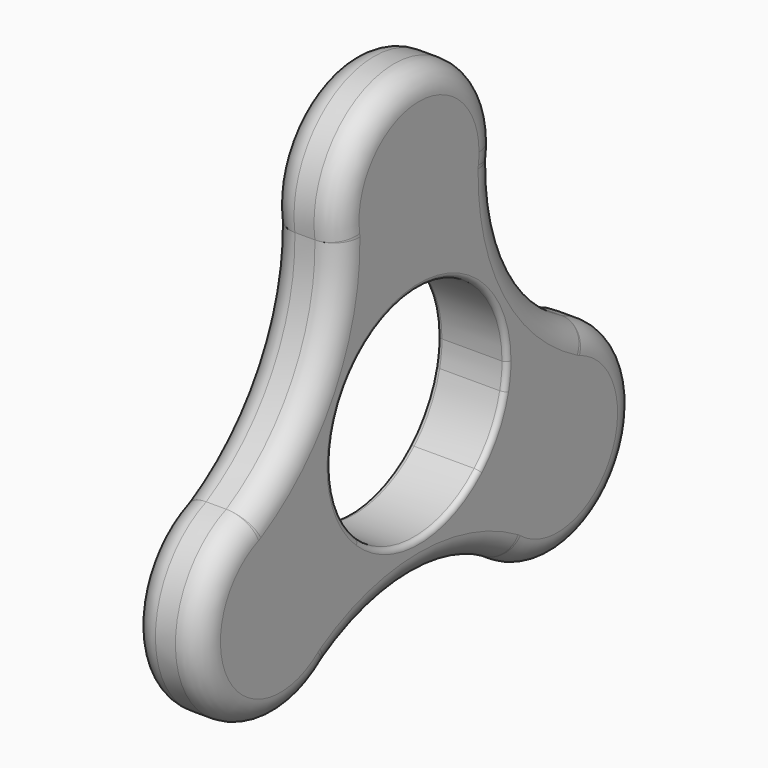
from build123d import *

# Parameters (mm, degrees)
F1_DEPTH = 7
F2_R     = 2.5
F3_R     = 0.5


with BuildPart() as f1:
    # F0 (on Right) → F1 (new body)
    with BuildSketch(Plane.YZ):
        with BuildLine():
            ThreePointArc((9.8879091333, 18.5069316923), (9.9719379093, 19.2513650199), (10, 20))
            ThreePointArc((10, 20), (-0.7486349801, 29.9719379093), (-9.8879091333, 18.5069316923))
            ThreePointArc((-9.8879091333, 18.5069316923), (-7.6638873097, 13.576229199), (-3.1975576617, 10.525))
            ThreePointArc((-3.1975576617, 10.525), (0, 11), (3.1975576617, 10.525))
            ThreePointArc((3.1975576617, 10.525), (7.6638873097, 13.576229199), (9.8879091333, 18.5069316923))
        make_face()
        with BuildLine():
            ThreePointArc((-3.1975576617, 10.525), (-7.6638873097, 13.576229199), (-9.8879091333, 18.5069316923))
            ThreePointArc((-9.8879091333, 18.5069316923), (-12.744426926, 7.3579983164), (-20.9714275583, -0.6902853464))
            ThreePointArc((-20.9714275583, -0.6902853464), (-15.5893030288, -0.1509934975), (-10.7136962057, -2.4933338349))
            ThreePointArc((-10.7136962057, -2.4933338349), (-9.5262794416, 5.5), (-3.1975576617, 10.525))
        make_face()
        with BuildLine():
            ThreePointArc((20.9714275583, -0.6902853464), (12.744426926, 7.3579983164), (9.8879091333, 18.5069316923))
            ThreePointArc((9.8879091333, 18.5069316923), (7.6638873097, 13.576229199), (3.1975576617, 10.525))
            ThreePointArc((3.1975576617, 10.525), (8.8366604065, 6.5508345163), (11, 0))
            ThreePointArc((11, 0), (10.9281896548, -1.2548589039), (10.7136962057, -2.4933338349))
            ThreePointArc((10.7136962057, -2.4933338349), (15.5893030288, -0.1509934975), (20.9714275583, -0.6902853464))
        make_face()
        with BuildLine():
            ThreePointArc((-10.7136962057, -2.4933338349), (-15.5893030288, -0.1509934975), (-20.9714275583, -0.6902853464))
            ThreePointArc((-20.9714275583, -0.6902853464), (-25.9807621135, -15), (-11.083518425, -17.8166463459))
            ThreePointArc((-11.083518425, -17.8166463459), (-8.3102390312, -14.3376320437), (-7.3205080757, -10))
            ThreePointArc((-7.3205080757, -10), (-7.369535879, -9.0109841551), (-7.516138544, -8.0316661651))
            ThreePointArc((-7.516138544, -8.0316661651), (-9.5262794416, -5.5), (-10.7136962057, -2.4933338349))
        make_face()
        with BuildLine():
            ThreePointArc((27.3205080757, -10), (25.58214214, -4.3656941344), (20.9714275583, -0.6902853464))
            ThreePointArc((20.9714275583, -0.6902853464), (15.5893030288, -0.1509934975), (10.7136962057, -2.4933338349))
            ThreePointArc((10.7136962057, -2.4933338349), (9.5262794416, -5.5), (7.516138544, -8.0316661651))
            ThreePointArc((7.516138544, -8.0316661651), (7.9254157191, -13.4252357014), (11.083518425, -17.8166463459))
            ThreePointArc((11.083518425, -17.8166463459), (21.6581401194, -19.0102690445), (27.3205080757, -10))
        make_face()
        with BuildLine():
            ThreePointArc((-7.3205080757, -10), (-8.3102390312, -14.3376320437), (-11.083518425, -17.8166463459))
            ThreePointArc((-11.083518425, -17.8166463459), (0, -14.7159966328), (11.083518425, -17.8166463459))
            ThreePointArc((11.083518425, -17.8166463459), (7.9254157191, -13.4252357014), (7.516138544, -8.0316661651))
            ThreePointArc((7.516138544, -8.0316661651), (0, -11), (-7.516138544, -8.0316661651))
            ThreePointArc((-7.516138544, -8.0316661651), (-7.369535879, -9.0109841551), (-7.3205080757, -10))
        make_face()
    extrude(amount=F1_DEPTH)

    # F2 (call 1 of 2: OpenCascade refuses the feature's edges together)
    f2_edges = [f1.edges().sort_by_distance(p)[0] for p in [
        (0, -12.744427, 7.357998),
        (0, 0, -14.715997),
        (0, 12.744427, 7.357998),
        (0, 25.980762, -15),
        (0, -25.980762, -15),
        (0, 0, 30),
    ]]
    fillet(f2_edges, radius=F2_R)

    # F2#2 (call 2 of 2)
    f2_2_edges = [f1.edges().sort_by_distance(p)[0] for p in [
        (7, 12.744427, 7.357998),
        (7, -12.744427, 7.357998),
        (7, 0, -14.715997),
        (7, -25.980762, -15),
        (7, 25.980762, -15),
        (7, 0, 30),
    ]]
    fillet(f2_2_edges, radius=F2_R)

    # F3
    f3_edges = [f1.edges().sort_by_distance(p)[0] for p in [
        (0, -7.516139, 8.031666),
        (7, -7.516139, 8.031666),
    ]]
    fillet(f3_edges, radius=F3_R)


solid = f1.part
